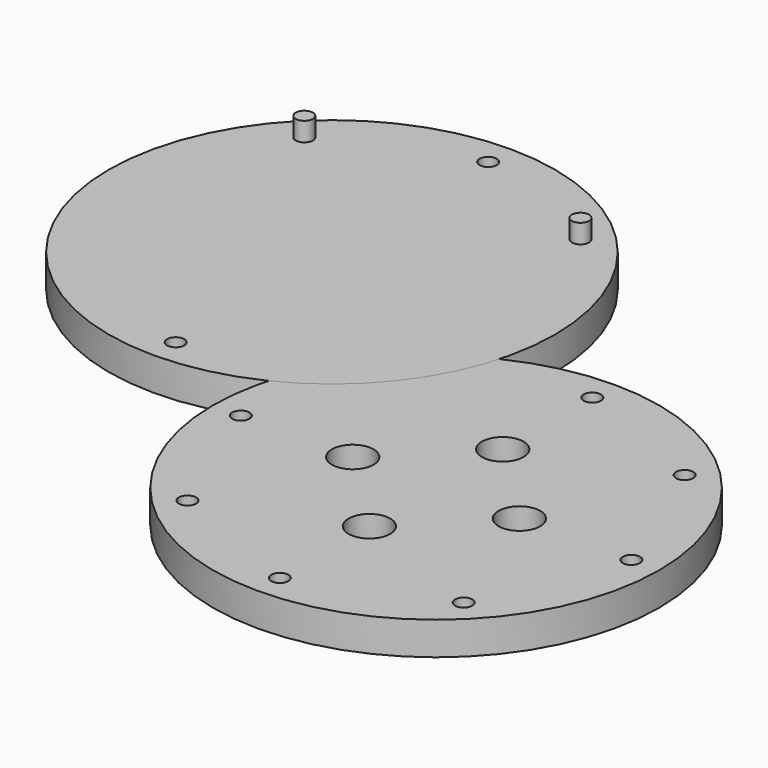
from build123d import *

# Parameters (mm, degrees)
CYLINDER011_R     = 8
CYLINDER011_DEPTH = 30
CYLINDER012_R     = 8
CYLINDER012_DEPTH = 30
CYLINDER009_R     = 8
CYLINDER009_DEPTH = 30
CYLINDER010_R     = 8
CYLINDER010_DEPTH = 30
CYLINDER003_R     = 3.3
CYLINDER003_DEPTH = 20
CYLINDER004_R     = 3.3
CYLINDER004_DEPTH = 20
CYLINDER005_R     = 3.3
CYLINDER005_DEPTH = 20
CYLINDER006_R     = 3.3
CYLINDER006_DEPTH = 20
CYLINDER007_R     = 3.3
CYLINDER007_DEPTH = 20
CYLINDER008_R     = 3.3
CYLINDER008_DEPTH = 20
CYLINDER002_R     = 3.3
CYLINDER002_DEPTH = 20
CYLINDER001_R     = 3.3
CYLINDER001_DEPTH = 20
CYLINDER_R        = 85.72
CYLINDER_DEPTH    = 12.7
CYLINDER019_R     = 3.3
CYLINDER019_DEPTH = 20
CYLINDER020_R     = 3.3
CYLINDER020_DEPTH = 20
CYLINDER017_R     = 3.3
CYLINDER017_DEPTH = 20
CYLINDER013_R     = 85.72
CYLINDER013_DEPTH = 12.7
CYLINDER032_R     = 3.3
CYLINDER032_DEPTH = 20
CYLINDER033_R     = 3.3
CYLINDER033_DEPTH = 20
CYLINDER030_R     = 3.3
CYLINDER030_DEPTH = 20
CYLINDER026_R     = 85.72
CYLINDER026_DEPTH = 12.7
CYLINDER029_R     = 3.3
CYLINDER029_DEPTH = 20


with BuildPart() as cylinder011:
    # Cylinder011 → Cylinder011 (new body)
    with BuildSketch(Plane(origin=(0, 32, 0), x_dir=(1, 0, 0), z_dir=(0, 0, 1))):
        Circle(CYLINDER011_R)
    extrude(amount=CYLINDER011_DEPTH)


with BuildPart() as cylinder012:
    # Cylinder012 → Cylinder012 (new body)
    with BuildSketch(Plane(origin=(0, -32, 0), x_dir=(1, 0, 0), z_dir=(0, 0, 1))):
        Circle(CYLINDER012_R)
    extrude(amount=CYLINDER012_DEPTH)


with BuildPart() as cylinder009:
    # Cylinder009 → Cylinder009 (new body)
    with BuildSketch(Plane(origin=(-32, 0, 0), x_dir=(1, 0, 0), z_dir=(0, 0, 1))):
        Circle(CYLINDER009_R)
    extrude(amount=CYLINDER009_DEPTH)


with BuildPart() as cylinder010:
    # Cylinder010 → Cylinder010 (new body)
    with BuildSketch(Plane(origin=(32, 0, 0), x_dir=(1, 0, 0), z_dir=(0, 0, 1))):
        Circle(CYLINDER010_R)
    extrude(amount=CYLINDER010_DEPTH)


with BuildPart() as body003:
    # Cylinder003 → Cylinder003 (join)
    with BuildSketch(Plane.XY):
        Circle(CYLINDER003_R)
    extrude(amount=CYLINDER003_DEPTH)


with BuildPart() as body003_1:
    # Body003 placement: moved
    add(body003.part.moved(Location((75, 0, 0))))


with BuildPart() as body004:
    # Cylinder004 → Cylinder004 (join)
    with BuildSketch(Plane.XY):
        Circle(CYLINDER004_R)
    extrude(amount=CYLINDER004_DEPTH)


with BuildPart() as body004_1:
    # Body004 placement: moved
    add(body004.part.moved(Location((53.03, -53.03, 0))))


with BuildPart() as body005:
    # Cylinder005 → Cylinder005 (join)
    with BuildSketch(Plane.XY):
        Circle(CYLINDER005_R)
    extrude(amount=CYLINDER005_DEPTH)


with BuildPart() as body005_1:
    # Body005 placement: moved
    add(body005.part.moved(Location((-75, 0, 0))))


with BuildPart() as body006:
    # Cylinder006 → Cylinder006 (join)
    with BuildSketch(Plane.XY):
        Circle(CYLINDER006_R)
    extrude(amount=CYLINDER006_DEPTH)


with BuildPart() as body006_1:
    # Body006 placement: moved
    add(body006.part.moved(Location((-53.03, -53.03, 0))))


with BuildPart() as body007:
    # Cylinder007 → Cylinder007 (join)
    with BuildSketch(Plane.XY):
        Circle(CYLINDER007_R)
    extrude(amount=CYLINDER007_DEPTH)


with BuildPart() as body007_1:
    # Body007 placement: moved
    add(body007.part.moved(Location((53.03, 53.03, 0))))


with BuildPart() as body008:
    # Cylinder008 → Cylinder008 (join)
    with BuildSketch(Plane.XY):
        Circle(CYLINDER008_R)
    extrude(amount=CYLINDER008_DEPTH)


with BuildPart() as body008_1:
    # Body008 placement: moved
    add(body008.part.moved(Location((-53.03, 53.03, 0))))


with BuildPart() as body002:
    # Cylinder002 → Cylinder002 (join)
    with BuildSketch(Plane.XY):
        Circle(CYLINDER002_R)
    extrude(amount=CYLINDER002_DEPTH)


with BuildPart() as body002_1:
    # Body002 placement: moved
    add(body002.part.moved(Location((0, 75, 0))))


with BuildPart() as body001:
    # Cylinder001 → Cylinder001 (join)
    with BuildSketch(Plane.XY):
        Circle(CYLINDER001_R)
    extrude(amount=CYLINDER001_DEPTH)


with BuildPart() as body001_1:
    # Body001 placement: moved
    add(body001.part.moved(Location((0, -75, 0))))


with BuildPart() as cut011:
    # Cylinder → Cylinder (join)
    with BuildSketch(Plane.XY):
        Circle(CYLINDER_R)
    extrude(amount=CYLINDER_DEPTH)

    # Cut: cut Body001
    add(body001_1.part, mode=Mode.SUBTRACT)

    # Cut001: cut Body002
    add(body002_1.part, mode=Mode.SUBTRACT)

    # Cut002: cut Body008
    add(body008_1.part, mode=Mode.SUBTRACT)

    # Cut003: cut Body007
    add(body007_1.part, mode=Mode.SUBTRACT)

    # Cut004: cut Body006
    add(body006_1.part, mode=Mode.SUBTRACT)

    # Cut005: cut Body005
    add(body005_1.part, mode=Mode.SUBTRACT)

    # Cut006: cut Body004
    add(body004_1.part, mode=Mode.SUBTRACT)

    # Cut007: cut Body003
    add(body003_1.part, mode=Mode.SUBTRACT)

    # Cut008: cut Cylinder010
    add(cylinder010.part, mode=Mode.SUBTRACT)

    # Cut009: cut Cylinder009
    add(cylinder009.part, mode=Mode.SUBTRACT)

    # Cut010: cut Cylinder012
    add(cylinder012.part, mode=Mode.SUBTRACT)

    # Cut011: cut Cylinder011
    add(cylinder011.part, mode=Mode.SUBTRACT)


with BuildPart() as cut011_1:
    # Cut011 placement: moved
    add(cut011.part.moved(Location((120, -100, 0))))


with BuildPart() as body013:
    # Cylinder019 → Cylinder019 (join)
    with BuildSketch(Plane.XY):
        Circle(CYLINDER019_R)
    extrude(amount=CYLINDER019_DEPTH)


with BuildPart() as body013_1:
    # Body013 placement: moved
    add(body013.part.moved(Location((-53.03, 53.03, 0))))


with BuildPart() as body016:
    # Cylinder020 → Cylinder020 (join)
    with BuildSketch(Plane.XY):
        Circle(CYLINDER020_R)
    extrude(amount=CYLINDER020_DEPTH)


with BuildPart() as body016_1:
    # Body016 placement: moved
    add(body016.part.moved(Location((0, 75, 0))))


with BuildPart() as body010:
    # Cylinder017 → Cylinder017 (join)
    with BuildSketch(Plane.XY):
        Circle(CYLINDER017_R)
    extrude(amount=CYLINDER017_DEPTH)


with BuildPart() as body010_1:
    # Body010 placement: moved
    add(body010.part.moved(Location((0, -75, 0))))


with BuildPart() as cut016:
    # Cylinder013 → Cylinder013 (join)
    with BuildSketch(Plane.XY):
        Circle(CYLINDER013_R)
    extrude(amount=CYLINDER013_DEPTH)

    # Cut022: cut Body010
    add(body010_1.part, mode=Mode.SUBTRACT)

    # Cut016: cut Body016
    add(body016_1.part, mode=Mode.SUBTRACT)


with BuildPart() as body022:
    # Cylinder032 → Cylinder032 (join)
    with BuildSketch(Plane.XY):
        Circle(CYLINDER032_R)
    extrude(amount=CYLINDER032_DEPTH)


with BuildPart() as body022_1:
    # Body022 placement: moved
    add(body022.part.moved(Location((-53.03, 53.03, 0))))


with BuildPart() as body025:
    # Cylinder033 → Cylinder033 (join)
    with BuildSketch(Plane.XY):
        Circle(CYLINDER033_R)
    extrude(amount=CYLINDER033_DEPTH)


with BuildPart() as body025_1:
    # Body025 placement: moved
    add(body025.part.moved(Location((0, 75, 0))))


with BuildPart() as body019:
    # Cylinder030 → Cylinder030 (join)
    with BuildSketch(Plane.XY):
        Circle(CYLINDER030_R)
    extrude(amount=CYLINDER030_DEPTH)


with BuildPart() as body019_1:
    # Body019 placement: moved
    add(body019.part.moved(Location((0, -75, 0))))


with BuildPart() as cut032:
    # Cylinder026 → Cylinder026 (join)
    with BuildSketch(Plane.XY):
        Circle(CYLINDER026_R)
    extrude(amount=CYLINDER026_DEPTH)

    # Cut034: cut Body019
    add(body019_1.part, mode=Mode.SUBTRACT)

    # Cut028: cut Body025
    add(body025_1.part, mode=Mode.SUBTRACT)

    # Cut032: cut Body022
    add(body022_1.part, mode=Mode.SUBTRACT)


with BuildPart() as body024:
    # Cylinder029 → Cylinder029 (join)
    with BuildSketch(Plane.XY):
        Circle(CYLINDER029_R)
    extrude(amount=CYLINDER029_DEPTH)


with BuildPart() as body024_1:
    # Body024 placement: moved
    add(body024.part.moved(Location((53.03, 53.03, 0))))


solid = Compound([cut011_1.part, body013_1.part, cut016.part, cut032.part, body024_1.part])
